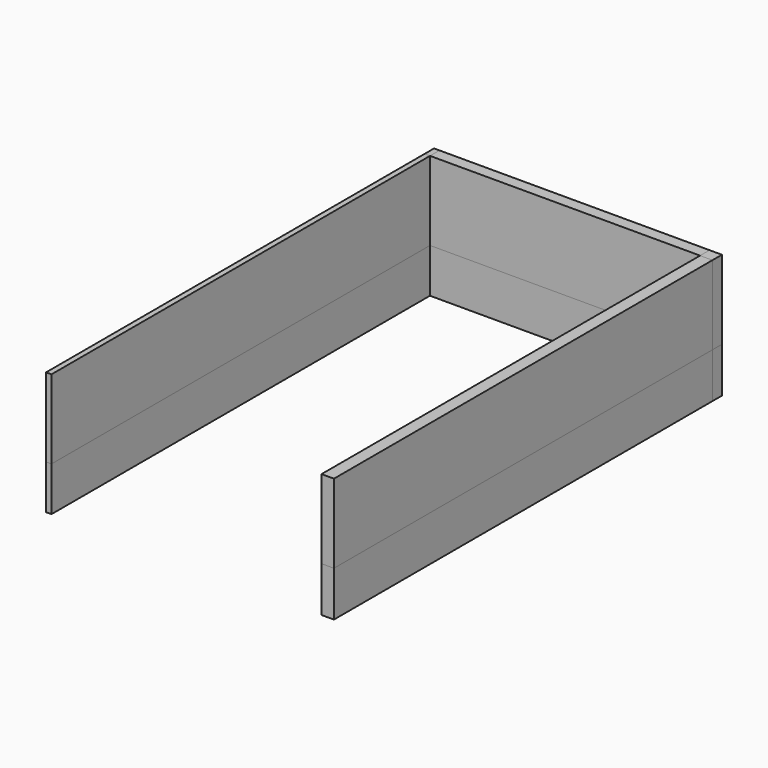
from build123d import *

# Parameters (mm, degrees)
F0_W     = 180.8900013566
F0_H     = 71.3479816914
F1_DEPTH = 19.05
F2_W     = 8.7147951126
F2_H     = 71.2627023458
F3_DEPTH = 762
F4_DEPTH = 19.05
F5_DEPTH = 254
F7_DEPTH = 762
F8_DEPTH = 19.05
F9_DEPTH = 127


with BuildPart() as f1:
    # F0 (on Front) → F1 (new body)
    with BuildSketch(Plane.XZ):
        with Locations((52.7335517108, 166.128501296)):
            Rectangle(F0_W, F0_H)
    extrude(amount=F1_DEPTH)

    # F5 (add): a face of the model
    f5_faces = [f1.faces().sort_by_distance(p)[0] for p in [
        (143.1785523891, -9.525, 166.128501296),
    ]]
    extrude(f5_faces, amount=F5_DEPTH)


with BuildPart() as f3:
    # F2 (on face) → F3 (new body)
    with BuildSketch(Plane.XZ.offset(19.05)):
        with Locations((-42.0688465238, 166.1711409688)):
            Rectangle(F2_W, F2_H)
    extrude(amount=F3_DEPTH)


with BuildPart() as f4:
    # F4 (new): a face of the model
    f4_faces = [f3.part.faces().sort_by_distance(p)[0] for p in [
        (-42.0688465238, -19.05, 166.1711409688),
    ]]
    extrude(f4_faces, amount=F4_DEPTH)


with BuildPart() as f7:
    # F6 (on face) → F7 (new body)
    with BuildSketch(Plane.XZ.offset(19.05)):
        Polygon((417.1299636364, 201.8024921417), (397.1785523891, 201.8024921417), (397.1785523891, 130.4545104504), (397.1785523891, 128.9976835251), (417.1299636364, 128.9976835251), align=None)
    extrude(amount=F7_DEPTH)


with BuildPart() as f8:
    # F8 (new): a face of the model
    f8_faces = [f7.part.faces().sort_by_distance(p)[0] for p in [
        (407.1542580128, -19.05, 165.4000878334),
    ]]
    extrude(f8_faces, amount=F8_DEPTH)


with BuildPart() as f9:
    # F9 (new): a face of the model
    f9_faces = [f7.part.faces().sort_by_distance(p)[0] for p in [
        (407.1542580128, -400.05, 201.8024921417),
    ]]
    extrude(f9_faces, amount=F9_DEPTH)


with BuildPart() as f9b:
    # F9#2 (new): a face of the model
    f9_2_faces = [f1.part.faces().sort_by_distance(p)[0] for p in [
        (179.7335517108, -9.525, 201.8024921417),
    ]]
    extrude(f9_2_faces, amount=F9_DEPTH)


with BuildPart() as f9c:
    # F9#3 (new): a face of the model
    f9_3_faces = [f3.part.faces().sort_by_distance(p)[0] for p in [
        (-42.0688465238, -400.05, 201.8024921417),
    ]]
    extrude(f9_3_faces, amount=F9_DEPTH)


with BuildPart() as f9d:
    # F9#4 (new): a face of the model
    f9_4_faces = [f8.part.faces().sort_by_distance(p)[0] for p in [
        (407.1542580128, -9.525, 201.8024921417),
    ]]
    extrude(f9_4_faces, amount=F9_DEPTH)


with BuildPart() as f9e:
    # F9#5 (new): a face of the model
    f9_5_faces = [f4.part.faces().sort_by_distance(p)[0] for p in [
        (-42.0688465238, -9.525, 201.8024921417),
    ]]
    extrude(f9_5_faces, amount=F9_DEPTH)


solid = Compound([f1.part, f3.part, f4.part, f7.part, f8.part, f9.part, f9b.part, f9c.part, f9d.part, f9e.part])
